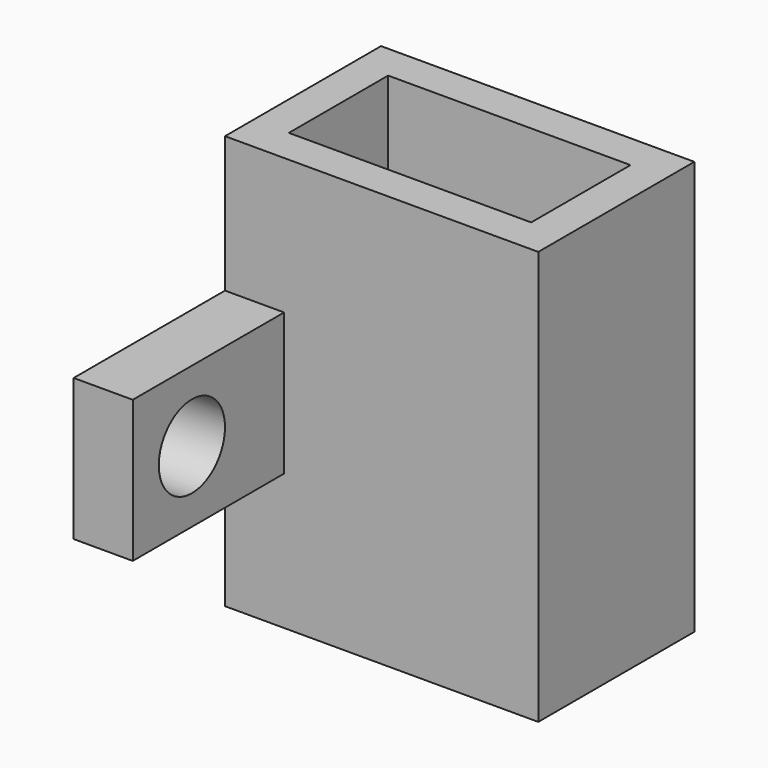
from build123d import *

# Parameters (mm, degrees)
F0_W      = 26.5
F0_H      = 35
F1_DEPTH  = 16.5
F2_W      = 20.5
F2_H      = 10.5
F3_DEPTH  = 35
F4_R      = 2.7
F4_R_2    = 1.65
F5_DEPTH  = 2
F6_W      = 5
F6_H      = 12
F7_DEPTH  = 16
F8_W      = 5
F8_H      = 12
F9_DEPTH  = 16
F10_R     = 3.5
F11_DEPTH = 5
F12_R     = 3.5
F13_DEPTH = 5


with BuildPart() as f1:
    # F0 (on Front) → F1 (new body)
    with BuildSketch(Plane.XZ):
        Rectangle(F0_W, F0_H)
    extrude(amount=F1_DEPTH)

    # F2 (on face) → F3 (cut)
    with BuildSketch(Plane.XY.offset(17.5)):
        with Locations((0, -8.25)):
            Rectangle(F2_W, F2_H)
    extrude(amount=-F3_DEPTH, mode=Mode.SUBTRACT)

    # F4 (on face) → F5 (join)
    with BuildSketch(Plane(origin=(0, 0, 0), x_dir=(-1, 0, 0), z_dir=(0, 1, 0))):
        Circle(F4_R)
        Circle(F4_R_2, mode=Mode.SUBTRACT)
        with Locations((0, 9.5)):
            Circle(F4_R)
        with Locations((0, 9.5)):
            Circle(F4_R_2, mode=Mode.SUBTRACT)
        with Locations((0, -11)):
            Circle(F4_R)
        with Locations((0, -11)):
            Circle(F4_R_2, mode=Mode.SUBTRACT)
    extrude(amount=F5_DEPTH)

    # F6 (on face) → F7 (join)
    with BuildSketch(Plane.XZ.offset(16.5)):
        with Locations((-10.75, 0)):
            Rectangle(F6_W, F6_H)
    extrude(amount=F7_DEPTH)

    # F8 (on face) → F9 (join)
    with BuildSketch(Plane(origin=(0, 0, 0), x_dir=(-1, 0, 0), z_dir=(0, 1, 0))):
        with Locations((10.75, 0)):
            Rectangle(F8_W, F8_H)
    extrude(amount=F9_DEPTH)

    # F10 (on face) → F11 (cut)
    with BuildSketch(Plane.YZ.offset(-8.25)):
        with Locations((9.75, 0)):
            Circle(F10_R)
    extrude(amount=-F11_DEPTH, mode=Mode.SUBTRACT)

    # F12 (on face) → F13 (cut)
    with BuildSketch(Plane.YZ.offset(-8.25)):
        with Locations((-26.25, 0)):
            Circle(F12_R)
    extrude(amount=-F13_DEPTH, mode=Mode.SUBTRACT)


solid = f1.part
